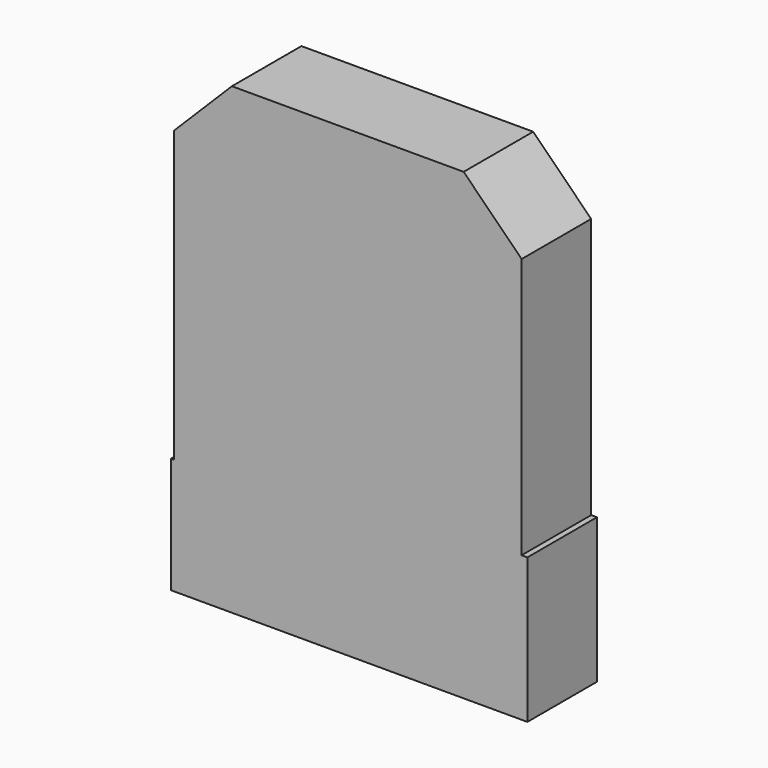
from build123d import *

# Parameters (mm, degrees)
F0_W     = 304.8
F0_H     = 406.4
F1_DEPTH = 76.2
F2_SIZE  = 50.8
F3_W     = 25.4
F3_H     = 101.6
F4_DEPTH = 2.54
F5_W     = 76.2
F5_H     = 127
F6_DEPTH = 5.08


with BuildPart() as f1:
    # F0 (on Front) → F1 (new body)
    with BuildSketch(Plane.XZ):
        Rectangle(F0_W, F0_H)
    extrude(amount=F1_DEPTH)

    # F2
    f2_edges = [f1.edges().sort_by_distance(p)[0] for p in [
        (-152.4, -38.1, 203.2),
        (152.4, -38.1, 203.2),
    ]]
    chamfer(f2_edges, length=F2_SIZE)

    # F3 (on face) → F4 (join)
    with BuildSketch(Plane(origin=(-152.4, 0, 0), x_dir=(0, -1, 0), z_dir=(-1, 0, 0))):
        with Locations((12.7, -152.4)):
            Rectangle(F3_W, F3_H)
        with Locations((63.5, -152.4)):
            Rectangle(F3_W, F3_H)
    extrude(amount=F4_DEPTH)

    # F5 (on face) → F6 (join)
    with BuildSketch(Plane.YZ.offset(152.4)):
        with Locations((-38.1, -139.7)):
            Rectangle(F5_W, F5_H)
    extrude(amount=F6_DEPTH)


solid = f1.part
